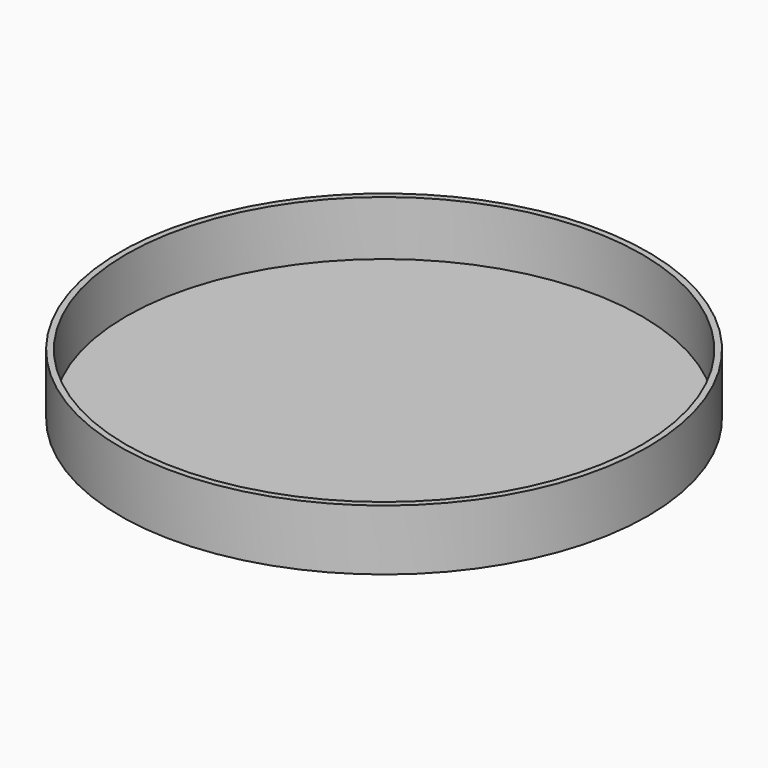
from build123d import *

# Parameters (mm, degrees)
SKETCH_R     = 43.5
PAD_DEPTH    = 10
SKETCH001_R  = 42.5
POCKET_DEPTH = 9


with BuildPart() as part:
    # Sketch → Pad (new body)
    with BuildSketch(Plane.XY):
        Circle(SKETCH_R)
    extrude(amount=PAD_DEPTH)

    # Sketch001 (on Face3 of Pad) → Pocket (cut)
    with BuildSketch(Plane.XY.offset(10)):
        Circle(SKETCH001_R)
    extrude(amount=-POCKET_DEPTH, mode=Mode.SUBTRACT)


solid = part.part
